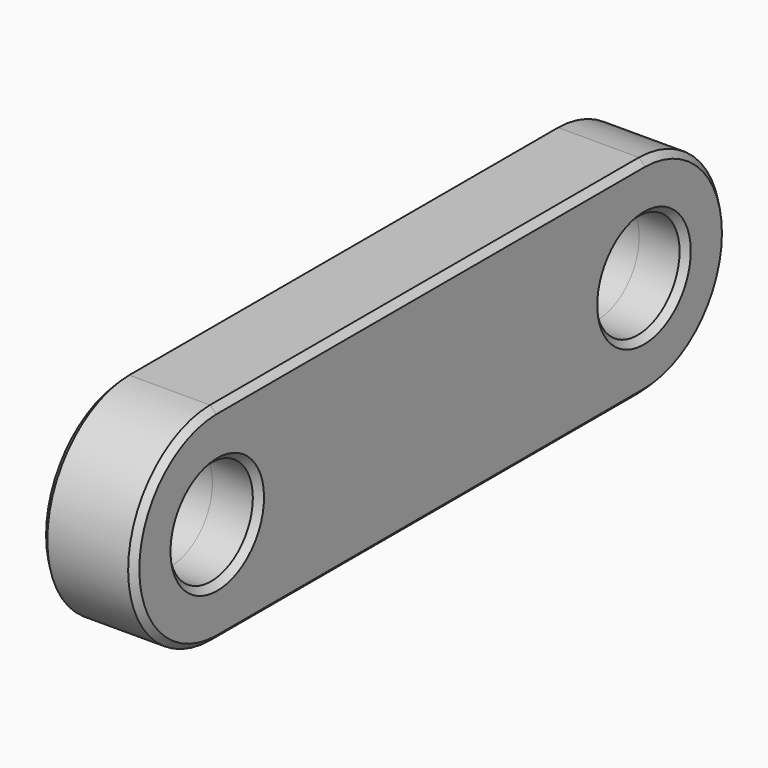
from build123d import *

# Parameters (mm, degrees)
F1_R          = 12.6
F2_DEPTH      = 11.25
F2_DEPTH_BACK = 11.25
F3_SIZE       = 1.5


with BuildPart() as f2:
    # F1 (on face) → F2 (new body, two sides)
    with BuildSketch(Plane.YZ) as f2_sk:
        with BuildLine():
            Line((129.016359, 24.99787), (128.36368, 24.99787))
            Line((128.36368, 24.99787), (0.32634, 24.99787))
            Line((0.32634, 24.99787), (-0.32634, 24.99787))
            ThreePointArc((-0.32634, 24.99787), (-24.999467, -0.163173), (0, -25))
            Line((0, -25), (128.690019, -25))
            ThreePointArc((128.690019, -25), (153.689487, -0.163173), (129.016359, 24.99787))
        make_face()
        Circle(F1_R, mode=Mode.SUBTRACT)
        with Locations((128.690019, 0)):
            Circle(F1_R, mode=Mode.SUBTRACT)
    extrude(amount=F2_DEPTH)
    extrude(f2_sk.sketch, amount=-F2_DEPTH_BACK)

    # F3
    f3_edges = [f2.edges().sort_by_distance(p)[0] for p in [
        (-11.25, 116.090019, 0),
        (-11.25, 153.689487, -0.163173),
        (-11.25, 64.34501, -25),
        (-11.25, 64.34501, 24.99787),
        (-11.25, -12.6, 0),
        (11.25, 64.34501, 24.99787),
        (11.25, -24.999467, -0.163173),
        (11.25, -12.6, 0),
        (0, 12.6, 0),
        (11.25, 116.090019, 0),
    ]]
    chamfer(f3_edges, length=F3_SIZE)


solid = f2.part
